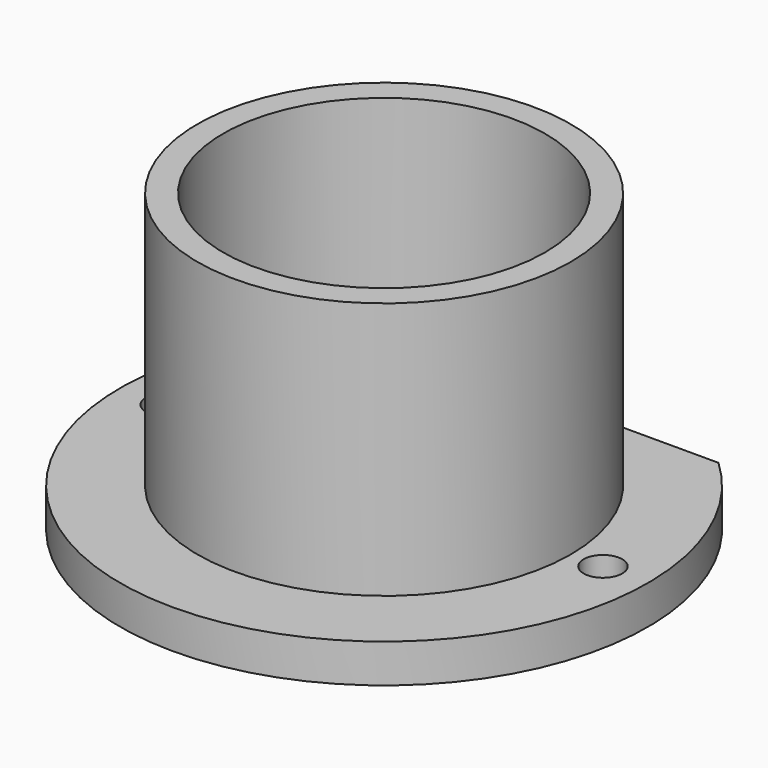
from build123d import *

# Parameters (mm, degrees)
SKETCH_R      = 12.5
SKETCH_R_2    = 1.5
PAD_DEPTH     = 3
SKETCH001_R   = 14.5
SKETCH001_R_2 = 12.5
PAD001_DEPTH  = 20


with BuildPart() as part:
    # Sketch → Pad (new body)
    with BuildSketch(Plane.XY):
        with BuildLine():
            ThreePointArc((-13.973189, 15), (0, -20.5), (13.973189, 15))
            Line((-13.973189, 15), (13.973189, 15))
        make_face()
        Circle(SKETCH_R, mode=Mode.SUBTRACT)
        with Locations((-17, 0)):
            Circle(SKETCH_R_2, mode=Mode.SUBTRACT)
        with Locations((17, 0)):
            Circle(SKETCH_R_2, mode=Mode.SUBTRACT)
    extrude(amount=PAD_DEPTH)

    # Sketch001 → Pad001 (new body)
    with BuildSketch(Plane.XY.offset(3)):
        Circle(SKETCH001_R)
        Circle(SKETCH001_R_2, mode=Mode.SUBTRACT)
    extrude(amount=PAD001_DEPTH)


solid = part.part
